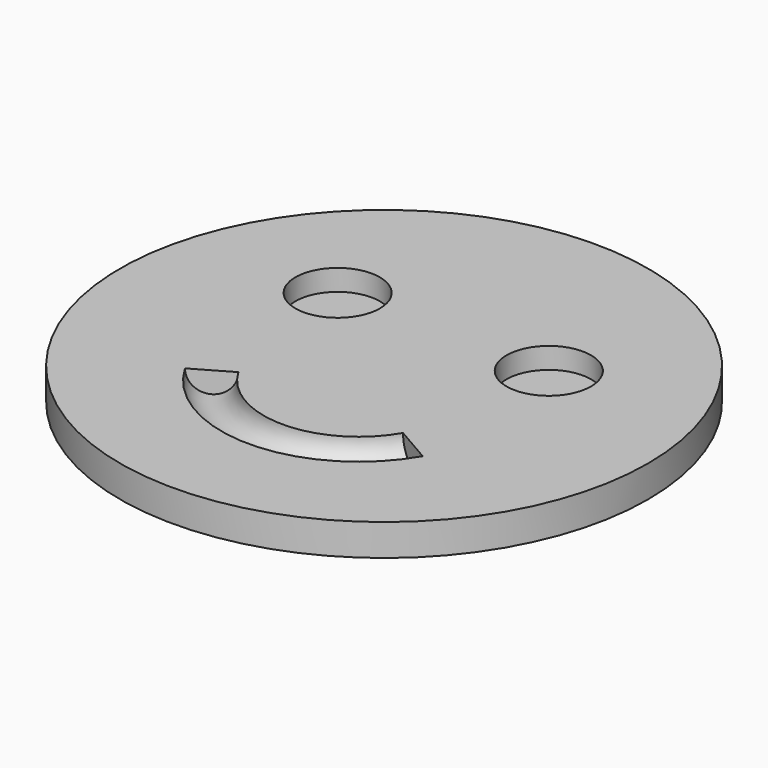
from build123d import *

# Parameters (mm, degrees)
TORUS_R               = 2
TORUS_ANGLE           = 120
TORUS_PLACEMENT_ANGLE = 150
CYLINDER001_R         = 4
CYLINDER001_DEPTH     = 10
ARRAY_X_COUNT         = 2
ARRAY_X_PITCH         = 20
CYLINDER_R            = 25
CYLINDER_DEPTH        = 3


with BuildPart() as torus:
    # Torus → Torus (revolve)
    with BuildSketch(Plane.XZ):
        with Locations((11, 0)):
            Circle(TORUS_R)
    revolve(axis=Axis((0, 0, 0), (0, 0, 1)), revolution_arc=TORUS_ANGLE)


with BuildPart() as torus_1:
    # Torus placement: moved
    add(torus.part.moved(Location((0, -3, 3))).rotate(Axis((0, -3, 3), (0, 0, -1)), TORUS_PLACEMENT_ANGLE))


with BuildPart() as obj1:
    # Cylinder001 → Cylinder001 (new body)
    with BuildSketch(Plane(origin=(-9, 7, 1), x_dir=(1, 0, 0), z_dir=(0, 0, 1))):
        Circle(CYLINDER001_R)
    extrude(amount=CYLINDER001_DEPTH)

    # Array X: obj1_2


with BuildPart() as obj1_1:
    add(obj1.part)
    with Locations(*[(i * ARRAY_X_PITCH, 0, 0) for i in range(1, ARRAY_X_COUNT)]):
        add(obj1.part)


with BuildPart() as obj1_2:
    # Array placement: moved
    add(obj1_1.part.moved(Location((-1, 0, 0))))


with BuildPart() as obj2:
    # Cylinder → Cylinder (new body)
    with BuildSketch(Plane.XY):
        Circle(CYLINDER_R)
    extrude(amount=CYLINDER_DEPTH)

    # Cut: cut obj1
    add(obj1_2.part, mode=Mode.SUBTRACT)

    # Cut001: cut Torus
    add(torus_1.part, mode=Mode.SUBTRACT)


solid = obj2.part
